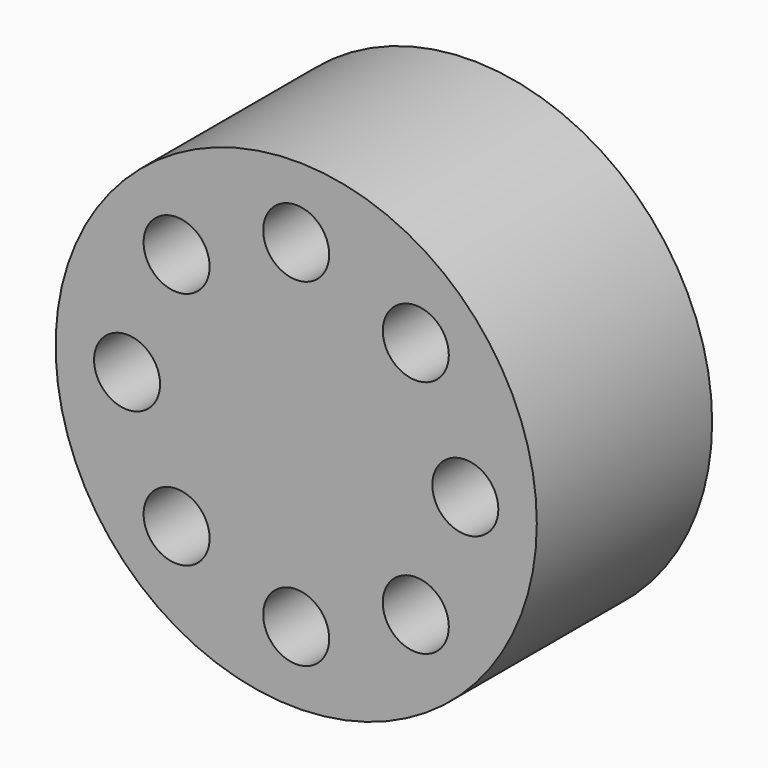
from build123d import *

# Parameters (mm, degrees)
F1_R     = 55.768053
F1_R_2   = 7.650882
F2_DEPTH = 50.8


with BuildPart() as f2:
    # F1 (on face) → F2 (new body)
    with BuildSketch(Plane.XZ):
        Circle(F1_R)
        with Locations((-27.72102, -27.72102)):
            Circle(F1_R_2, mode=Mode.SUBTRACT)
        with Locations((0, -39.203443)):
            Circle(F1_R_2, mode=Mode.SUBTRACT)
        with Locations((27.72102, -27.72102)):
            Circle(F1_R_2, mode=Mode.SUBTRACT)
        with Locations((-39.203443, 0)):
            Circle(F1_R_2, mode=Mode.SUBTRACT)
        with Locations((-27.72102, 27.72102)):
            Circle(F1_R_2, mode=Mode.SUBTRACT)
        with Locations((27.72102, 27.72102)):
            Circle(F1_R_2, mode=Mode.SUBTRACT)
        with Locations((39.203443, 0)):
            Circle(F1_R_2, mode=Mode.SUBTRACT)
        with Locations((0, 39.203443)):
            Circle(F1_R_2, mode=Mode.SUBTRACT)
    extrude(amount=F2_DEPTH)


solid = f2.part
